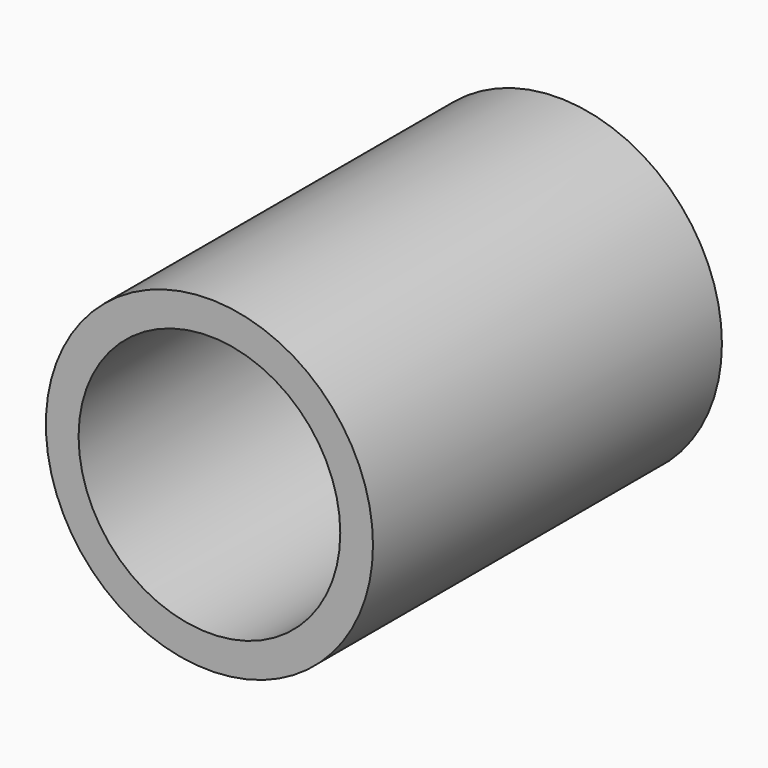
from build123d import *

# Parameters (mm, degrees)
SKETCH_R     = 7.5
PAD_DEPTH    = 10
SKETCH001_R  = 6
POCKET_DEPTH = 20.001


with BuildPart() as part:
    # Sketch → Pad (new body, symmetric)
    with BuildSketch(Plane.XZ):
        Circle(SKETCH_R)
    extrude(amount=PAD_DEPTH, both=True)

    # Sketch001 → Pocket (cut, through all)
    with BuildSketch(Plane.XZ.offset(10)):
        Circle(SKETCH001_R)
    extrude(amount=-POCKET_DEPTH, mode=Mode.SUBTRACT)


solid = part.part
